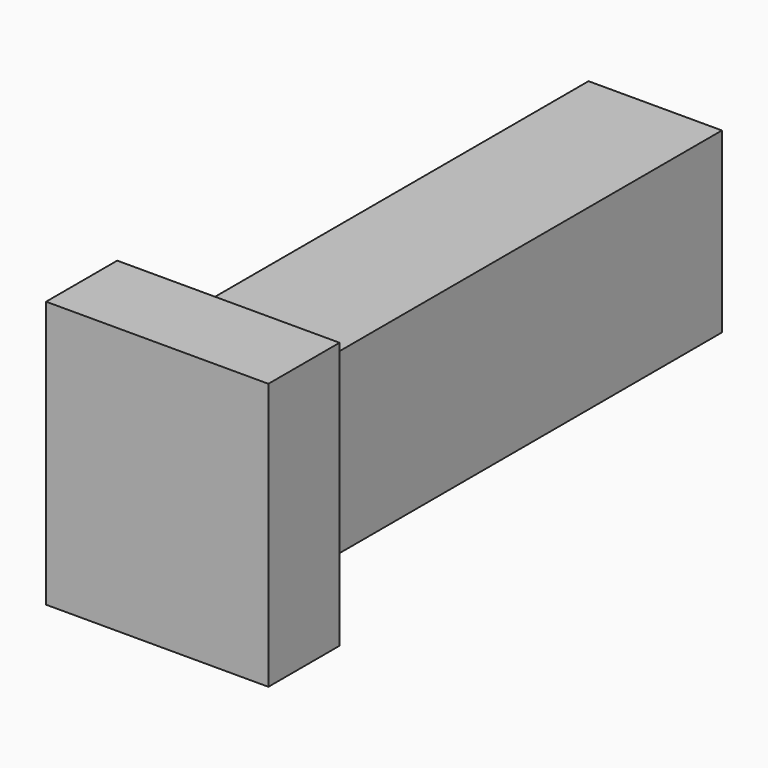
from build123d import *

# Parameters (mm, degrees)
F0_W     = 1.5
F0_H     = 2
F1_DEPTH = 6
F2_W     = 2.5
F2_H     = 3
F3_DEPTH = 1
F4_DEPTH = 1


with BuildPart() as f1:
    # F0 (on Front) → F1 (new body)
    with BuildSketch(Plane.XZ):
        with Locations((0.387931, -3.345636)):
            Rectangle(F0_W, F0_H)
    extrude(amount=F1_DEPTH)

    # F2 (on face) → F3 (join)
    with BuildSketch(Plane.XZ.offset(6)):
        with Locations((0.387931, -3.345636)):
            Rectangle(F2_W, F2_H)
    extrude(amount=F3_DEPTH)

    # F2 (on face) → F4 (join)
    with BuildSketch(Plane.XZ.offset(6)):
        with Locations((0.387931, -3.345636)):
            Rectangle(F2_W, F2_H)
    extrude(amount=F4_DEPTH)


solid = f1.part
